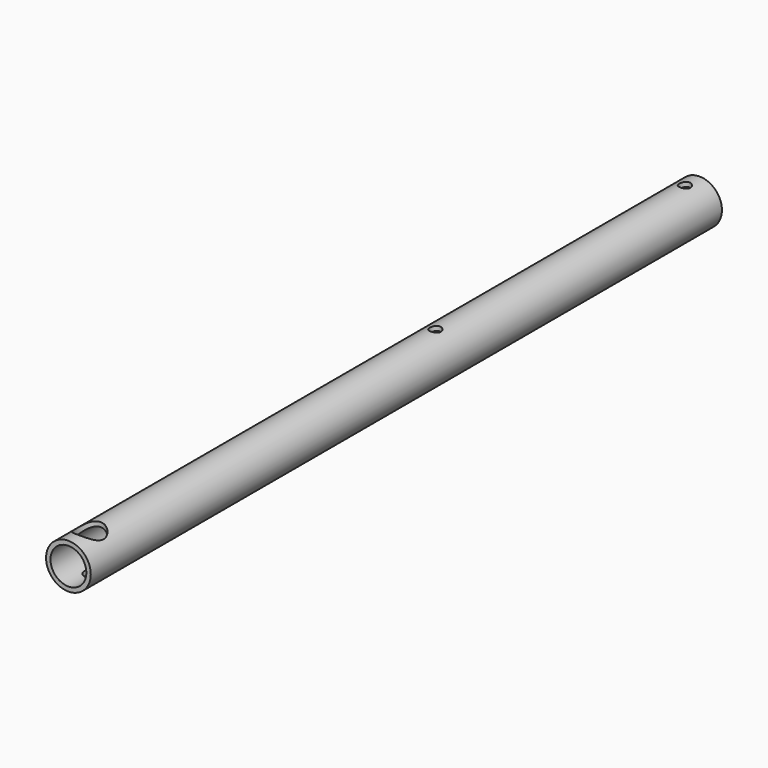
from build123d import *

# Parameters (mm, degrees)
SKETCH_R         = 6.095
SKETCH_R_2       = 4.8895
PAD_DEPTH        = 215
HOLE_D           = 3.05
HOLE_DEPTH       = 25
HOLE_CBORE_D     = 7.62
HOLE_CBORE_DEPTH = 5
SKETCH002_R      = 1.525
HOLE001_DEPTH    = 25


with BuildPart() as part:
    # Sketch → Pad (new body)
    with BuildSketch(Plane.XZ):
        Circle(SKETCH_R)
        Circle(SKETCH_R_2, mode=Mode.SUBTRACT)
    extrude(amount=PAD_DEPTH)

    # Hole
    with Locations(Plane.XY.offset(7)):
        with Locations((0, -207.79)):
            CounterBoreHole(HOLE_D / 2, HOLE_CBORE_D / 2, HOLE_CBORE_DEPTH, depth=HOLE_DEPTH)

    # Sketch002 → Hole001 (cut)
    with BuildSketch(Plane.XY.offset(7)):
        with Locations((0, -5)):
            Circle(SKETCH002_R)
        with Locations((0, -90)):
            Circle(SKETCH002_R)
    extrude(amount=-HOLE001_DEPTH, mode=Mode.SUBTRACT)


solid = part.part
